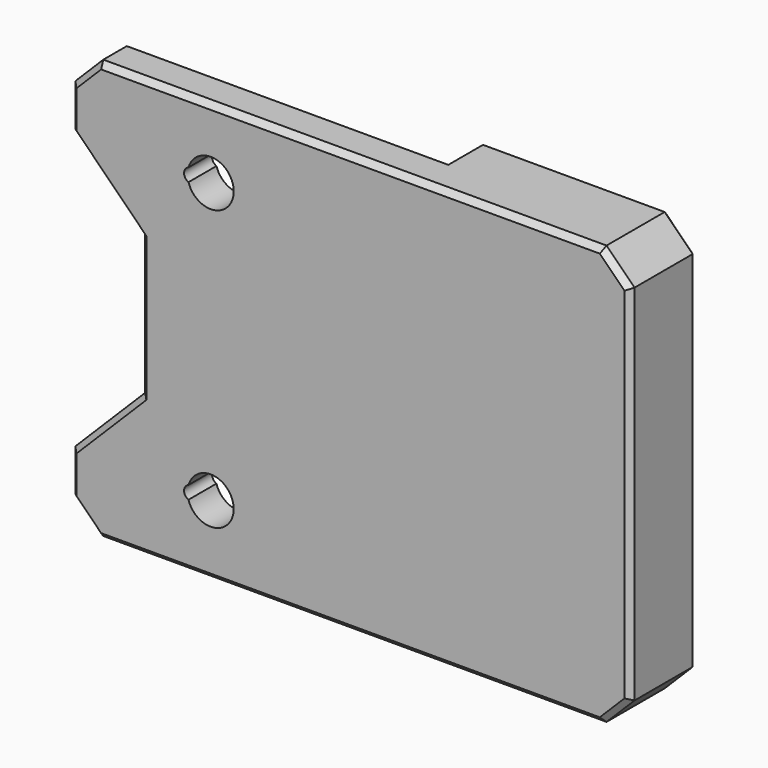
from build123d import *

# Parameters (mm, degrees)
CYLINDER022_R     = 0.5
CYLINDER022_DEPTH = 10
CYLINDER021_R     = 0.5
CYLINDER021_DEPTH = 10
CYLINDER023_R     = 1.65
CYLINDER023_DEPTH = 10
CYLINDER024_R     = 1.65
CYLINDER024_DEPTH = 10
BOX024_W          = 10
BOX024_H          = 10
BOX024_DEPTH      = 20
CHAMFER011_SIZE   = 5
BOX016_W          = 25
BOX016_H          = 3
BOX016_DEPTH      = 20
BOX023_W          = 25
BOX023_H          = 3.5
BOX023_DEPTH      = 30
BOX022_W          = 40
BOX022_H          = 6
BOX022_DEPTH      = 30
CHAMFER010_SIZE   = 2
CHAMFER012_SIZE   = 0.4


with BuildPart() as cylinder022:
    # Cylinder022 → Cylinder022 (new body)
    with BuildSketch(Plane(origin=(5, 0, 25), x_dir=(1, 0, 0), z_dir=(0, -1, 0))):
        Circle(CYLINDER022_R)
    extrude(amount=CYLINDER022_DEPTH)


with BuildPart() as fusion007004:
    # Cylinder021 → Cylinder021 (new body)
    with BuildSketch(Plane(origin=(5, 0, 5), x_dir=(1, 0, 0), z_dir=(0, -1, 0))):
        Circle(CYLINDER021_R)
    extrude(amount=CYLINDER021_DEPTH)

    # Fusion007004: union Cylinder022
    add(cylinder022.part)


with BuildPart() as fusion007004_1:
    # Fusion007004 placement: moved
    add(fusion007004.part.moved(Location((-1.4, 0, 0))))


with BuildPart() as cylinder023:
    # Cylinder023 → Cylinder023 (new body)
    with BuildSketch(Plane(origin=(5, 0, 5), x_dir=(1, 0, 0), z_dir=(0, -1, 0))):
        Circle(CYLINDER023_R)
    extrude(amount=CYLINDER023_DEPTH)


with BuildPart() as fusion007005:
    # Cylinder024 → Cylinder024 (new body)
    with BuildSketch(Plane(origin=(5, 0, 25), x_dir=(1, 0, 0), z_dir=(0, -1, 0))):
        Circle(CYLINDER024_R)
    extrude(amount=CYLINDER024_DEPTH)

    # Fusion007003: union Cylinder023
    add(cylinder023.part)

    # Fusion007005: union Fusion007004
    add(fusion007004_1.part)


with BuildPart() as chamfer011:
    # Box024 → Box024 (new body)
    with BuildSketch(Plane(origin=(-10, -11, 0), x_dir=(1, 0, 0), z_dir=(0, 0, 1))):
        with Locations((5, 5)):
            Rectangle(BOX024_W, BOX024_H)
    extrude(amount=BOX024_DEPTH)

    # Chamfer011
    chamfer011_edges = [chamfer011.edges().sort_by_distance(p)[0] for p in [
        (0, -6, 20),
        (0, -6, 0),
    ]]
    chamfer(chamfer011_edges, length=CHAMFER011_SIZE)


with BuildPart() as chamfer011_1:
    # Chamfer011 placement: moved
    add(chamfer011.part.moved(Location((0, 0, 5))))


with BuildPart() as magnet001:
    # Box016 → Box016 (new body)
    with BuildSketch(Plane(origin=(5.5, -4, 5), x_dir=(1, 0, 0), z_dir=(0, 0, 1))):
        with Locations((12.5, 1.5)):
            Rectangle(BOX016_W, BOX016_H)
    extrude(amount=BOX016_DEPTH)


with BuildPart() as cube012:
    # Box023 → Box023 (new body)
    with BuildSketch(Plane(origin=(-5, -3.5, 0), x_dir=(1, 0, 0), z_dir=(0, 0, 1))):
        with Locations((12.5, 1.75)):
            Rectangle(BOX023_W, BOX023_H)
    extrude(amount=BOX023_DEPTH)


with BuildPart() as handle:
    # Box022 → Box022 (new body)
    with BuildSketch(Plane(origin=(-5, -6, 0), x_dir=(1, 0, 0), z_dir=(0, 0, 1))):
        with Locations((20, 3)):
            Rectangle(BOX022_W, BOX022_H)
    extrude(amount=BOX022_DEPTH)

    # Cut003004: cut Cube012
    add(cube012.part, mode=Mode.SUBTRACT)

    # Cut003005: cut magnet001
    add(magnet001.part, mode=Mode.SUBTRACT)

    # Chamfer010
    chamfer010_edges = [handle.edges().sort_by_distance(p)[0] for p in [
        (-5, -4.75, 30),
        (-5, -4.75, 0),
        (35, -3, 30),
        (35, -3, 0),
    ]]
    chamfer(chamfer010_edges, length=CHAMFER010_SIZE)

    # Cut003006: cut Chamfer011
    add(chamfer011_1.part, mode=Mode.SUBTRACT)

    # Chamfer012
    chamfer012_edges = [handle.edges().sort_by_distance(p)[0] for p in [
        (-5, -6, 3.5),
        (-4, -6, 1),
        (15, -6, 0),
        (34, -6, 1),
        (35, -6, 15),
        (34, -6, 29),
        (15, -6, 30),
        (-4, -6, 29),
        (-5, -6, 26.5),
        (-2.5, -6, 22.5),
        (0, -6, 15),
        (-2.5, -6, 7.5),
        (26.5, 0, 0),
        (34, 0, 1),
        (35, 0, 15),
        (34, 0, 29),
        (26.5, 0, 30),
        (20, 0, 15),
    ]]
    chamfer(chamfer012_edges, length=CHAMFER012_SIZE)

    # Cut003007: cut Fusion007005
    add(fusion007005.part, mode=Mode.SUBTRACT)


with BuildPart() as handle_1:
    # Cut003007 placement: moved
    add(handle.part.moved(Location((0, 0, 10))))


solid = handle_1.part
